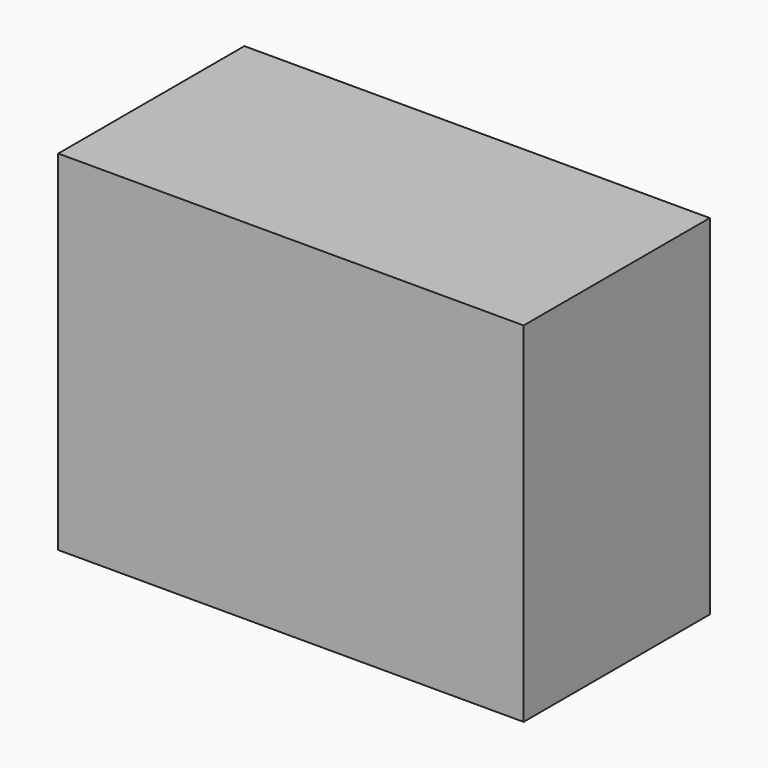
from build123d import *

# Parameters (mm, degrees)
F0_W     = 101.6
F0_H     = 76.2
F1_DEPTH = 50.8
F3_DEPTH = 25.4


with BuildPart() as f1:
    # F0 (on Front) → F1 (new body)
    with BuildSketch(Plane.XZ):
        with Locations((-0.65925, -10.851537)):
            Rectangle(F0_W, F0_H)
    extrude(amount=F1_DEPTH)

    # F2 (on face) → F3 (join)
    with BuildSketch(Plane.XZ.offset(50.8)):
        Polygon((50.14075, 27.248463), (-9.009716, 27.248463), (-31.424135, -48.951537), (25.271157, -48.951537), (50.14075, -10.851537), align=None)
    extrude(amount=-F3_DEPTH)


solid = f1.part
